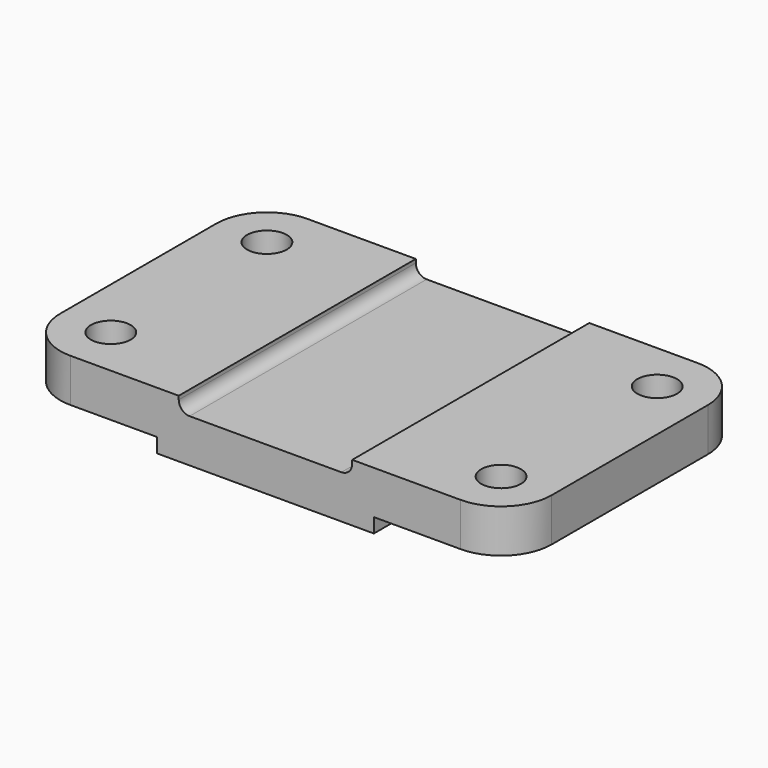
from build123d import *

# Parameters (mm, degrees)
F0_R     = 5.5
F1_DEPTH = 16
F2_W     = 24
F2_H     = 4
F2_W_2   = 14
F3_DEPTH = 82.001


with BuildPart() as f1:
    # F0 (on Top) → F1 (new body)
    with BuildSketch(Plane.XY):
        with BuildLine():
            Line((-122, 0), (-14, 0))
            ThreePointArc((-14, 0), (-4.100505, 4.100505), (0, 14))
            Line((0, 14), (0, 68))
            ThreePointArc((0, 68), (-4.100505, 77.899495), (-14, 82))
            Line((-14, 82), (-122, 82))
            ThreePointArc((-122, 82), (-131.899495, 77.899495), (-136, 68))
            Line((-136, 68), (-136, 14))
            ThreePointArc((-136, 14), (-131.899495, 4.100505), (-122, 0))
        make_face()
        with Locations((-122, 14)):
            Circle(F0_R, mode=Mode.SUBTRACT)
        with Locations((-14, 14)):
            Circle(F0_R, mode=Mode.SUBTRACT)
        with Locations((-122, 68)):
            Circle(F0_R, mode=Mode.SUBTRACT)
        with Locations((-14, 68)):
            Circle(F0_R, mode=Mode.SUBTRACT)
    extrude(amount=-F1_DEPTH)

    # F2 (on face) → F3 (cut, through all)
    with BuildSketch(Plane.XZ):
        with Locations((-110, -14)):
            Rectangle(F2_W, F2_H)
        with Locations((-129, -14)):
            Rectangle(F2_W_2, F2_H)
        with Locations((-26, -14)):
            Rectangle(F2_W, F2_H)
        with Locations((-7, -14)):
            Rectangle(F2_W_2, F2_H)
        with BuildLine():
            Line((-44, -1), (-44, 0))
            Line((-44, 0), (-92, 0))
            Line((-92, 0), (-92, -1))
            ThreePointArc((-92, -1), (-91.12132, -3.12132), (-89, -4))
            Line((-89, -4), (-47, -4))
            ThreePointArc((-47, -4), (-44.87868, -3.12132), (-44, -1))
        make_face()
    extrude(amount=-F3_DEPTH, mode=Mode.SUBTRACT)


solid = f1.part
